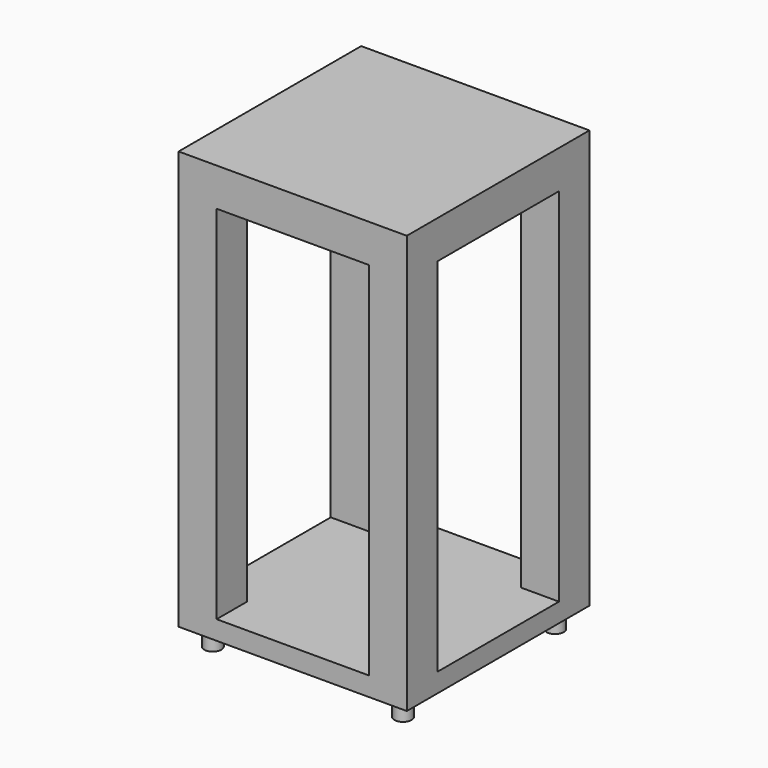
from build123d import *

# Parameters (mm, degrees)
SKETCH_W              = 60
SKETCH_H              = 60
PAD_DEPTH             = 5
SKETCH001_R           = 2.25
PAD001_DEPTH          = 5
POLARPATTERN_COUNT    = 4
SKETCH002_W           = 10
SKETCH002_H           = 10
PAD002_DEPTH          = 100
POLARPATTERN001_COUNT = 4
SKETCH003_W           = 60
SKETCH003_H           = 60
PAD003_DEPTH          = 10


with BuildPart() as part:
    # Sketch → Pad (new body)
    with BuildSketch(Plane.XY):
        Rectangle(SKETCH_W, SKETCH_H)
    extrude(amount=PAD_DEPTH)

    # Sketch001 → Pad001 (join)
    with BuildSketch(Plane.XY):
        with Locations((-25, 25)):
            Circle(SKETCH001_R)
    pad001 = extrude(amount=-PAD001_DEPTH)

    # PolarPattern: Pad001 ×4 about axis
    polarpattern_axis = Axis((0, 0, 0), (0, 0, 1))
    for i in range(1, POLARPATTERN_COUNT):
        add(pad001.rotate(polarpattern_axis, i * 360 / POLARPATTERN_COUNT))

    # Sketch002 → Pad002 (join)
    with BuildSketch(Plane.XY):
        with Locations((25, 25)):
            Rectangle(SKETCH002_W, SKETCH002_H)
    pad002 = extrude(amount=PAD002_DEPTH)

    # PolarPattern001: Pad002 ×4 about axis
    polarpattern001_axis = Axis((0, 0, 0), (0, 0, 1))
    for i in range(1, POLARPATTERN001_COUNT):
        add(pad002.rotate(polarpattern001_axis, i * 360 / POLARPATTERN001_COUNT))

    # Sketch003 → Pad003 (join)
    with BuildSketch(Plane.XY.offset(100)):
        Rectangle(SKETCH003_W, SKETCH003_H)
    extrude(amount=PAD003_DEPTH)


solid = part.part
